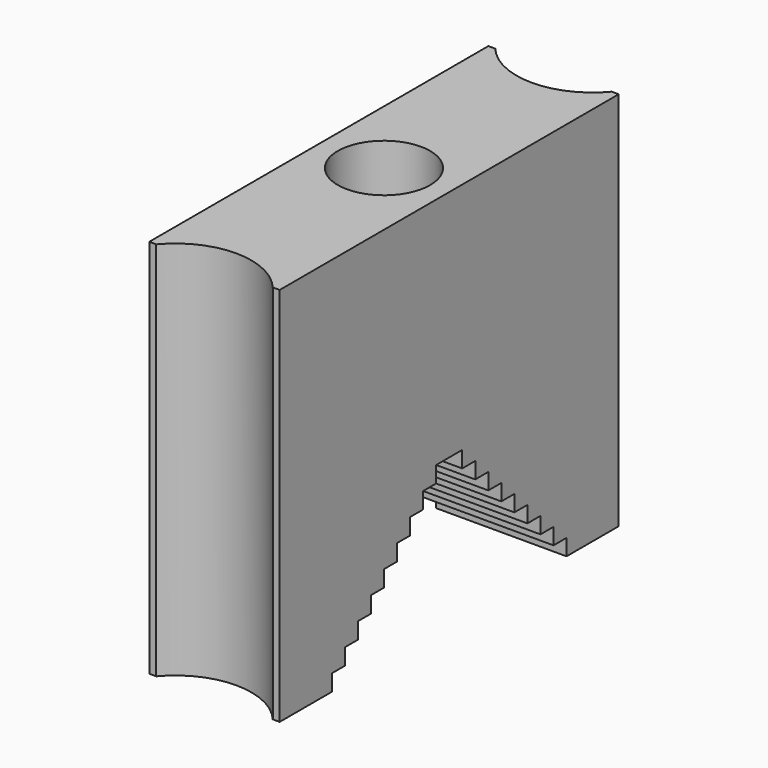
from build123d import *

# Parameters (mm, degrees)
SKETCH_W        = 24
SKETCH_H        = 78
PAD_DEPTH       = 70
SKETCH001_R     = 8.5
POCKET_DEPTH    = 30
POCKET001_DEPTH = 70
POCKET002_DEPTH = 24


with BuildPart() as part:
    # Sketch → Pad (new body)
    with BuildSketch(Plane.XY):
        Rectangle(SKETCH_W, SKETCH_H)
    extrude(amount=PAD_DEPTH)

    # Sketch001 (on Face6 of Pad) → Pocket (cut)
    with BuildSketch(Plane.XY.offset(70)):
        Circle(SKETCH001_R)
    extrude(amount=-POCKET_DEPTH, mode=Mode.SUBTRACT)

    # Sketch002 (on Face5 of Pocket) → Pocket001 (cut)
    with BuildSketch(Plane.XY.offset(70)):
        with BuildLine():
            ThreePointArc((-10.723805, 39), (0, 34), (10.723805, 39))
            Line((-10.723805, 39), (10.723805, 39))
        make_face()
        with BuildLine():
            ThreePointArc((10.723805, -39), (0, -34), (-10.723805, -39))
            Line((-10.723805, -39), (10.723805, -39))
        make_face()
    extrude(amount=-POCKET001_DEPTH, mode=Mode.SUBTRACT)

    # Sketch003 (on Face9 of Pocket001) → Pocket002 (cut)
    with BuildSketch(Plane.YZ.offset(12)):
        Polygon((-27, 3), (-27, 0), (27, 0), (27, 3), (24, 3), (24, 6), (21, 6), (21, 9), (18, 9), (18, 12), (15, 12), (15, 15), (12, 15), (12, 18), (9, 18), (9, 21), (6, 21), (6, 24), (3, 24), (3, 27), (-3, 27), (-3, 24), (-6, 24), (-6, 21), (-9, 21), (-9, 18), (-12, 18), (-12, 15), (-15, 15), (-15, 12), (-18, 12), (-18, 9), (-21, 9), (-21, 6), (-24, 6), (-24, 3), align=None)
    extrude(amount=-POCKET002_DEPTH, mode=Mode.SUBTRACT)


solid = part.part
